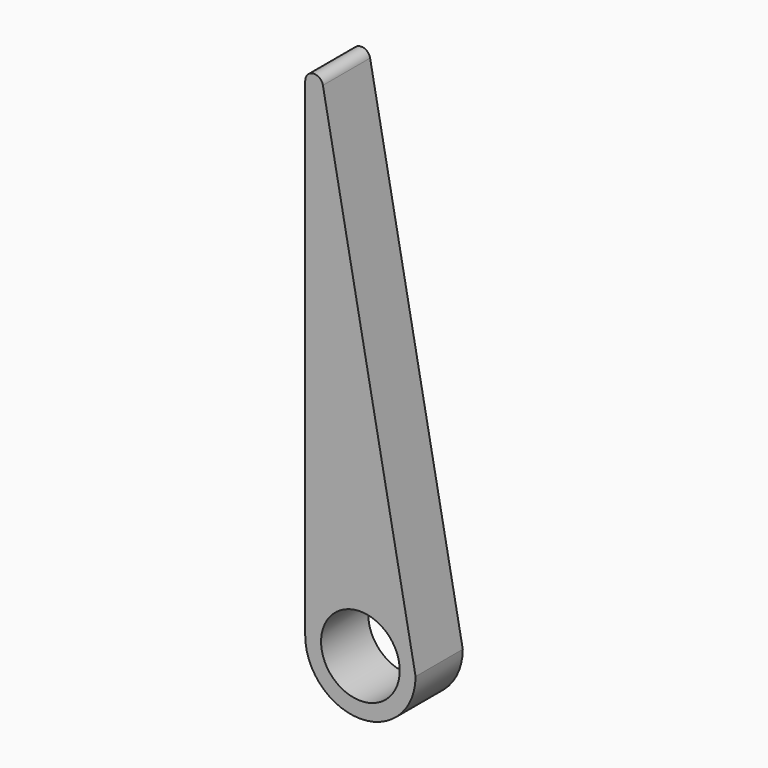
from build123d import *

# Parameters (mm, degrees)
F0_R     = 5.08
F1_DEPTH = 7.62
F2_R     = 1.15124


with BuildPart() as f1:
    # F0 (on Front) → F1 (new body)
    with BuildSketch(Plane.XZ):
        with BuildLine():
            Line((0, 75.388283), (0, 0))
            ThreePointArc((0, 0), (7.123203, -7.123203), (14.246407, 0))
            Line((14.246407, 0), (0, 75.388283))
        make_face()
        with Locations((7.123203, 0)):
            Circle(F0_R, mode=Mode.SUBTRACT)
    extrude(amount=F1_DEPTH)

    # F2
    f2_edges = [f1.edges().sort_by_distance(p)[0] for p in [
        (0, -3.81, 75.388283),
    ]]
    fillet(f2_edges, radius=F2_R)


solid = f1.part
